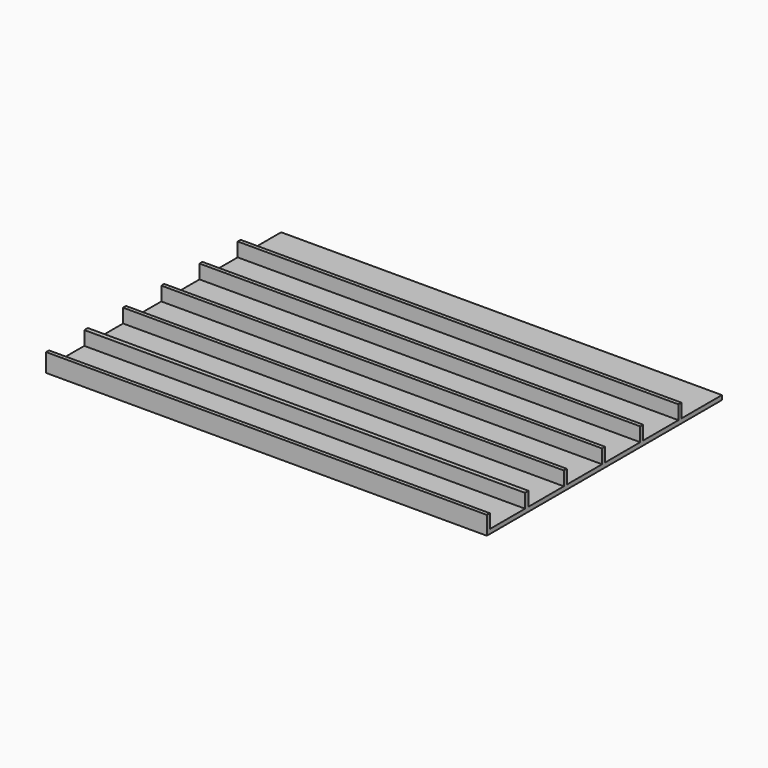
from build123d import *

# Parameters (mm, degrees)
F0_W     = 600
F0_H     = 400
F1_DEPTH = 6
F2_W     = 600
F2_H     = 6
F2_H_2   = 5
F3_DEPTH = 25


with BuildPart() as f1:
    # F0 (on Top) → F1 (new body)
    with BuildSketch(Plane.XY):
        Rectangle(F0_W, F0_H)
    extrude(amount=F1_DEPTH)

    # F2 (on Top) → F3 (join)
    with BuildSketch(Plane.XY):
        with Locations((0, -132)):
            Rectangle(F2_W, F2_H)
        with Locations((0, -66.5)):
            Rectangle(F2_W, F2_H_2)
        with Locations((0, -1.5)):
            Rectangle(F2_W, F2_H_2)
        with Locations((0, 63.5)):
            Rectangle(F2_W, F2_H_2)
        with Locations((0, 128.5)):
            Rectangle(F2_W, F2_H_2)
        with Locations((0, -197.5)):
            Rectangle(F2_W, F2_H_2)
    extrude(amount=F3_DEPTH)


solid = f1.part
